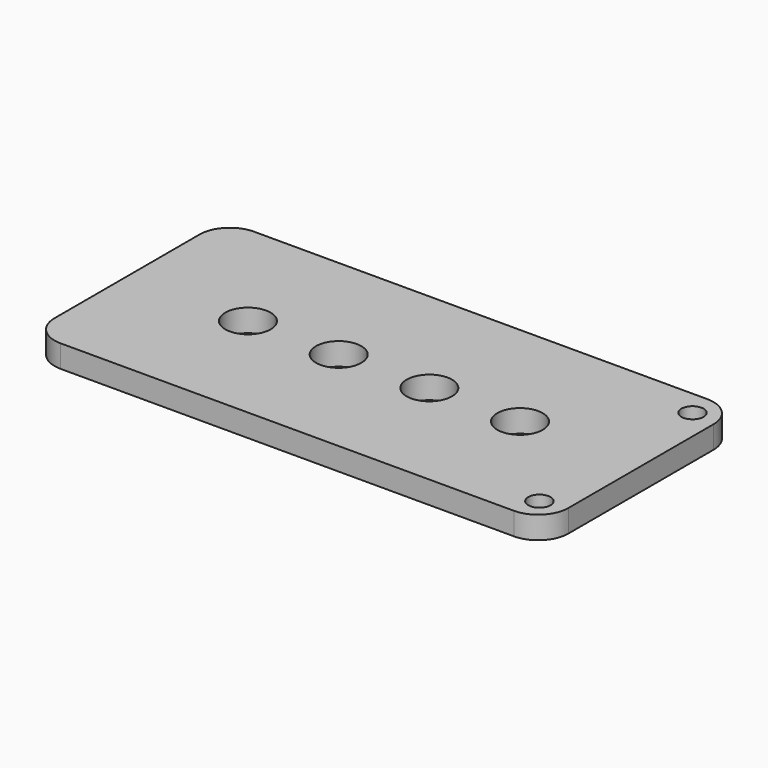
from build123d import *

# Parameters (mm, degrees)
F0_R     = 2.38125
F0_R_2   = 1.1684
F1_DEPTH = 2.3622


with BuildPart() as f1:
    # F0 (on Top) → F1 (new body)
    with BuildSketch(Plane.XY):
        with BuildLine():
            ThreePointArc((27.001965, 9.530442), (26.072029, 11.775506), (23.826965, 12.705442))
            Line((23.826965, 12.705442), (-23.798035, 12.705442))
            ThreePointArc((-23.798035, 12.705442), (-26.043099, 11.775506), (-26.973035, 9.530442))
            Line((-26.973035, 9.530442), (-26.973035, -9.519558))
            ThreePointArc((-26.973035, -9.519558), (-26.043099, -11.764622), (-23.798035, -12.694558))
            Line((-23.798035, -12.694558), (23.826965, -12.694558))
            ThreePointArc((23.826965, -12.694558), (26.072029, -11.764622), (27.001965, -9.519558))
            Line((27.001965, -9.519558), (27.001965, 9.530442))
        make_face()
        with Locations((-14.273035, 0.005442)):
            Circle(F0_R, mode=Mode.SUBTRACT)
        with Locations((-4.748035, 0.005442)):
            Circle(F0_R, mode=Mode.SUBTRACT)
        with Locations((24.38142, -10.050331)):
            Circle(F0_R_2, mode=Mode.SUBTRACT)
        with Locations((4.776965, 0.005442)):
            Circle(F0_R, mode=Mode.SUBTRACT)
        with Locations((14.301965, 0.005442)):
            Circle(F0_R, mode=Mode.SUBTRACT)
        with Locations((24.38142, 10.050331)):
            Circle(F0_R_2, mode=Mode.SUBTRACT)
    extrude(amount=F1_DEPTH)


solid = f1.part
